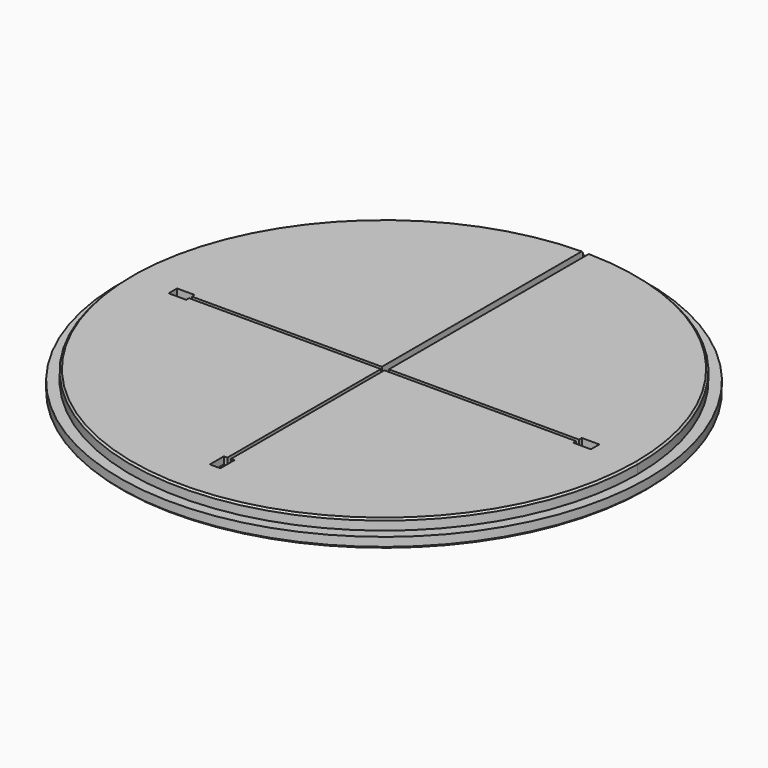
from build123d import *

# Parameters (mm, degrees)
SKETCH_R           = 72
PAD_DEPTH          = 3
SKETCH001_R        = 75
PAD001_DEPTH       = 3
CHAMFER_SIZE       = 0.5
CHAMFER001_SIZE    = 0.5
POCKET_DEPTH       = 2
POLARPATTERN_COUNT = 3
POLARPATTERN_ANGLE = 180
SKETCH003_W        = 2
SKETCH003_H        = 72
POCKET001_DEPTH    = 2
SKETCH004_W        = 2
SKETCH004_H        = 5
POCKET002_DEPTH    = 4
FILLET_R           = 0.9


with BuildPart() as part:
    # Sketch → Pad (new body)
    with BuildSketch(Plane.XY):
        Circle(SKETCH_R)
    extrude(amount=PAD_DEPTH)

    # Sketch001 (on Face2 of Pad) → Pad001 (join)
    with BuildSketch(Plane(origin=(0, 0, 0), x_dir=(1, 0, 0), z_dir=(0, 0, -1))):
        Circle(SKETCH001_R)
    extrude(amount=PAD001_DEPTH)

    # Chamfer
    chamfer_edges = [part.edges().sort_by_distance(p)[0] for p in [
        (-75, 0, -3),
    ]]
    chamfer(chamfer_edges, length=CHAMFER_SIZE)

    # Chamfer001
    chamfer001_edges = [part.edges().sort_by_distance(p)[0] for p in [
        (-72, 0, 3),
    ]]
    chamfer(chamfer001_edges, length=CHAMFER001_SIZE)

    # Sketch002 (on Face4 of Chamfer001) → Pocket (cut)
    with BuildSketch(Plane.XY.offset(3)):
        Polygon((-60, -1.5), (-60, 1.5), (-55, 1.5), (-55, 0.5), (0, 0.5), (0, -0.5), (-55, -0.5), (-55, -1.5), align=None)
    pocket = extrude(amount=-POCKET_DEPTH, mode=Mode.SUBTRACT)

    # PolarPattern: Pocket ×3 about axis
    polarpattern_axis = Axis((0, 0, 3), (0, 0, 1))
    for i in range(1, POLARPATTERN_COUNT):
        add(pocket.rotate(polarpattern_axis, i * POLARPATTERN_ANGLE / (POLARPATTERN_COUNT - 1)), mode=Mode.SUBTRACT)

    # Sketch003 (on Face4 of PolarPattern) → Pocket001 (cut)
    with BuildSketch(Plane.XY.offset(3)):
        with Locations((0, 36)):
            Rectangle(SKETCH003_W, SKETCH003_H)
    extrude(amount=-POCKET001_DEPTH, mode=Mode.SUBTRACT)

    # Sketch004 (on Face8 of Pocket001) → Pocket002 (cut)
    with BuildSketch(Plane.XY.offset(3)):
        with Locations((0, 72.5)):
            Rectangle(SKETCH004_W, SKETCH004_H)
    extrude(amount=-POCKET002_DEPTH, mode=Mode.SUBTRACT)

    # Fillet
    fillet_edges = [part.edges().sort_by_distance(p)[0] for p in [
        (0, 70, 1),
        (0, 70, -1),
    ]]
    fillet(fillet_edges, radius=FILLET_R)


solid = part.part
